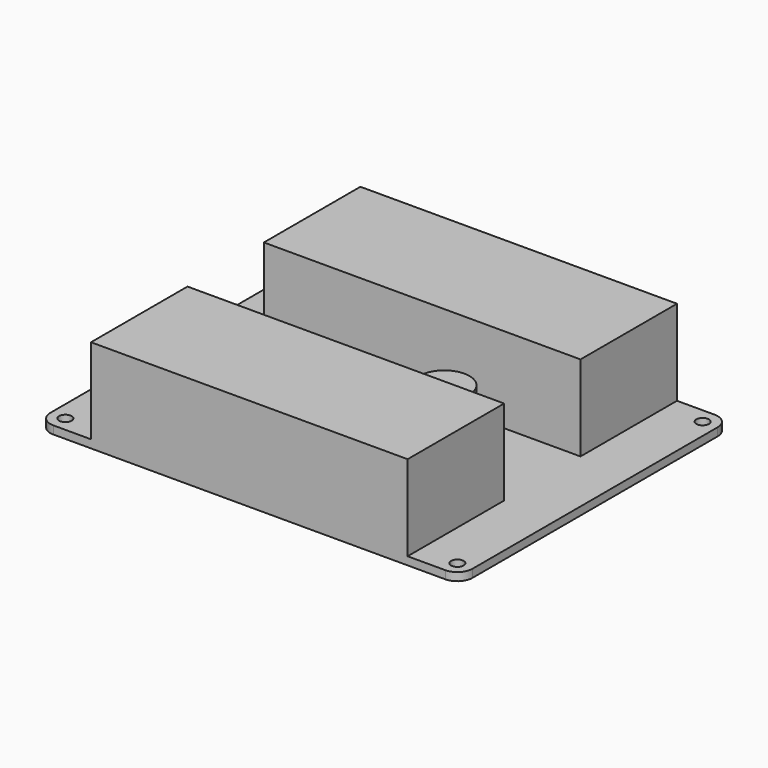
from build123d import *

# Parameters (mm, degrees)
PAD009_DEPTH    = 1.6
SKETCH027_R     = 1.25
POCKET010_DEPTH = 1.601
SKETCH028_R     = 5
PAD010_DEPTH    = 10
SKETCH029_W     = 63
SKETCH029_H     = 24
PAD011_DEPTH    = 17


with BuildPart() as part:
    # Sketch026 → Pad009 (new body)
    with BuildSketch(Plane.XY):
        with BuildLine():
            Line((39, 33.5), (-39, 33.5))
            ThreePointArc((-39, 33.5), (-41.12132, 32.62132), (-42, 30.5))
            Line((-42, 30.5), (-42, -30.5))
            ThreePointArc((-42, -30.5), (-41.12132, -32.62132), (-39, -33.5))
            Line((-39, -33.5), (39, -33.5))
            ThreePointArc((39, -33.5), (41.12132, -32.62132), (42, -30.5))
            Line((42, -30.5), (42, 30.5))
            ThreePointArc((42, 30.5), (41.12132, 32.62132), (39, 33.5))
        make_face()
    extrude(amount=PAD009_DEPTH)

    # Sketch027 (on Face10 of Pad009) → Pocket010 (cut, through all)
    with BuildSketch(Plane.XY.offset(1.6)):
        with Locations((-39, 30.5)):
            Circle(SKETCH027_R)
        with Locations((39, 30.5)):
            Circle(SKETCH027_R)
        with Locations((39, -30.5)):
            Circle(SKETCH027_R)
        with Locations((-39, -30.5)):
            Circle(SKETCH027_R)
    extrude(amount=-POCKET010_DEPTH, mode=Mode.SUBTRACT)

    # Sketch028 (on Face5 of Pocket010) → Pad010 (join)
    with BuildSketch(Plane.XY.offset(1.6)):
        with Locations((12, 0)):
            Circle(SKETCH028_R)
    extrude(amount=PAD010_DEPTH)

    # Sketch029 (on Face5 of Pad010) → Pad011 (join)
    with BuildSketch(Plane.XY.offset(1.6)):
        with Locations((0, 21.5)):
            Rectangle(SKETCH029_W, SKETCH029_H)
        with Locations((0, -21.5)):
            Rectangle(SKETCH029_W, SKETCH029_H)
    extrude(amount=PAD011_DEPTH)


solid = part.part
